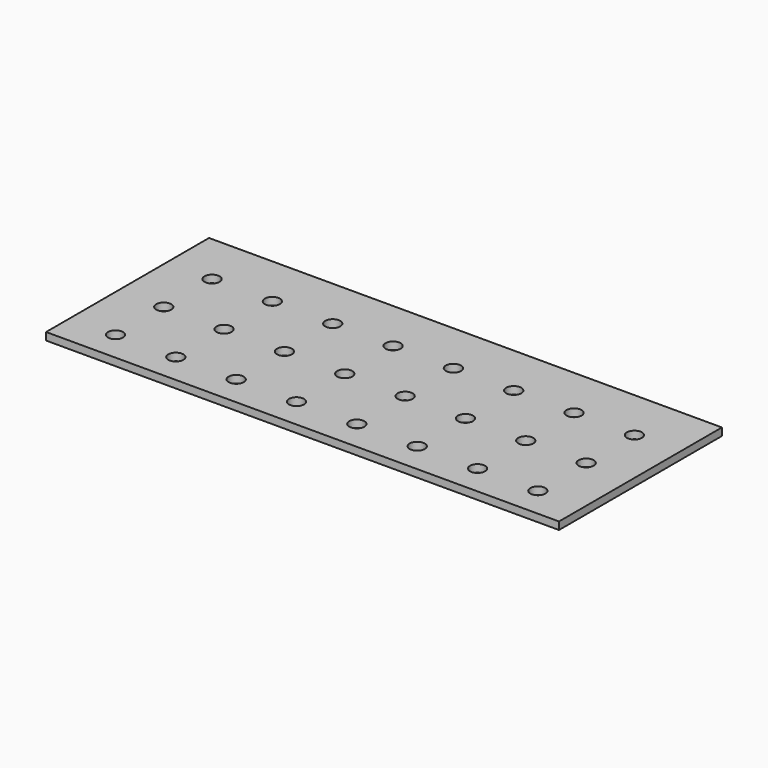
from build123d import *

# Parameters (mm, degrees)
F0_R     = 3.175
F1_DEPTH = 3.175


with BuildPart() as f1:
    # F0 (on Top) → F1 (new body)
    with BuildSketch(Plane.XY):
        Polygon((0, 85.725), (0, 0), (19.05, 0), (215.9, 0), (215.9, 85.725), align=None)
        with Locations((19.05, 12.7)):
            Circle(F0_R, mode=Mode.SUBTRACT)
        with Locations((44.45, 12.7)):
            Circle(F0_R, mode=Mode.SUBTRACT)
        with Locations((69.85, 12.7)):
            Circle(F0_R, mode=Mode.SUBTRACT)
        with Locations((95.25, 12.7)):
            Circle(F0_R, mode=Mode.SUBTRACT)
        with Locations((19.05, 38.1)):
            Circle(F0_R, mode=Mode.SUBTRACT)
        with Locations((44.45, 38.1)):
            Circle(F0_R, mode=Mode.SUBTRACT)
        with Locations((69.85, 38.1)):
            Circle(F0_R, mode=Mode.SUBTRACT)
        with Locations((95.25, 38.1)):
            Circle(F0_R, mode=Mode.SUBTRACT)
        with Locations((120.65, 12.7)):
            Circle(F0_R, mode=Mode.SUBTRACT)
        with Locations((146.05, 12.7)):
            Circle(F0_R, mode=Mode.SUBTRACT)
        with Locations((171.45, 12.7)):
            Circle(F0_R, mode=Mode.SUBTRACT)
        with Locations((196.85, 12.7)):
            Circle(F0_R, mode=Mode.SUBTRACT)
        with Locations((120.65, 38.1)):
            Circle(F0_R, mode=Mode.SUBTRACT)
        with Locations((146.05, 38.1)):
            Circle(F0_R, mode=Mode.SUBTRACT)
        with Locations((171.45, 38.1)):
            Circle(F0_R, mode=Mode.SUBTRACT)
        with Locations((196.85, 38.1)):
            Circle(F0_R, mode=Mode.SUBTRACT)
        with Locations((19.05, 63.5)):
            Circle(F0_R, mode=Mode.SUBTRACT)
        with Locations((44.45, 63.5)):
            Circle(F0_R, mode=Mode.SUBTRACT)
        with Locations((69.85, 63.5)):
            Circle(F0_R, mode=Mode.SUBTRACT)
        with Locations((95.25, 63.5)):
            Circle(F0_R, mode=Mode.SUBTRACT)
        with Locations((120.65, 63.5)):
            Circle(F0_R, mode=Mode.SUBTRACT)
        with Locations((146.05, 63.5)):
            Circle(F0_R, mode=Mode.SUBTRACT)
        with Locations((171.45, 63.5)):
            Circle(F0_R, mode=Mode.SUBTRACT)
        with Locations((196.85, 63.5)):
            Circle(F0_R, mode=Mode.SUBTRACT)
    extrude(amount=F1_DEPTH)


solid = f1.part
